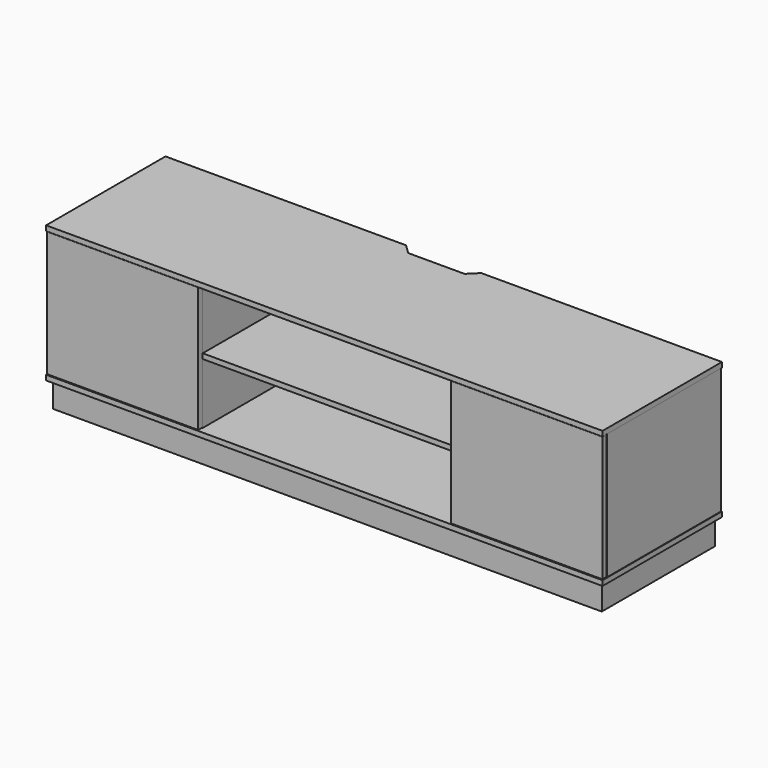
from build123d import *

# Parameters (mm, degrees)
SKETCH_W     = 1085
SKETCH_H     = 280
PAD_DEPTH    = 50
SKETCH001_W  = 1100
SKETCH001_H  = 295
PAD001_DEPTH = 10
SKETCH002_W  = 10
SKETCH002_H  = 282
PAD002_DEPTH = 250
SKETCH003_R  = 2
PAD003_DEPTH = 250
SKETCH004_W  = 299
SKETCH004_H  = 10
PAD004_DEPTH = 248
SKETCH005_W  = 500
SKETCH005_H  = 10
PAD005_DEPTH = 275
SKETCH006_W  = 279
SKETCH006_H  = 10
PAD006_DEPTH = 250
SKETCH007_W  = 1100
SKETCH007_H  = 295
PAD007_DEPTH = 10
POCKET_DEPTH = 320.001


with BuildPart() as body:
    # Sketch → Pad (new body)
    with BuildSketch(Plane.XY):
        Rectangle(SKETCH_W, SKETCH_H)
    extrude(amount=PAD_DEPTH)

    # Sketch001 (on Face6 of Pad) → Pad001 (join)
    with BuildSketch(Plane.XY.offset(50)):
        Rectangle(SKETCH001_W, SKETCH001_H)
    extrude(amount=PAD001_DEPTH)

    # Sketch002 (on Face11 of Pad001) → Pad002 (join)
    with BuildSketch(Plane.XY.offset(60)):
        with Locations((-544, 5.5)):
            Rectangle(SKETCH002_W, SKETCH002_H)
        with Locations((-255, 5.5)):
            Rectangle(SKETCH002_W, SKETCH002_H)
        with Locations((255, 5.5)):
            Rectangle(SKETCH002_W, SKETCH002_H)
        with Locations((544, 5.5)):
            Rectangle(SKETCH002_W, SKETCH002_H)
    extrude(amount=PAD002_DEPTH)

    # Sketch003 (on Face11 of Pad002) → Pad003 (join)
    with BuildSketch(Plane.XY.offset(60)):
        with Locations((544, -141.5)):
            Circle(SKETCH003_R)
        with Locations((-544, -141.5)):
            Circle(SKETCH003_R)
    extrude(amount=PAD003_DEPTH)

    # Sketch004 (on DatumPlane) → Pad004 (join)
    with BuildSketch(Plane.XY.offset(61)):
        with Locations((-399.5, -141.5)):
            Rectangle(SKETCH004_W, SKETCH004_H)
        with Locations((399.5, -141.5)):
            Rectangle(SKETCH004_W, SKETCH004_H)
    extrude(amount=PAD004_DEPTH)

    # Sketch005 (on Face24 of Pad004) → Pad005 (join)
    with BuildSketch(Plane.XZ.offset(135.5)):
        with Locations((0, 185)):
            Rectangle(SKETCH005_W, SKETCH005_H)
    extrude(amount=-PAD005_DEPTH)

    # Sketch006 (on Face11 of Pad005) → Pad006 (join)
    with BuildSketch(Plane.XY.offset(60)):
        with Locations((-399.5, 141.5)):
            Rectangle(SKETCH006_W, SKETCH006_H)
        with Locations((399.5, 141.5)):
            Rectangle(SKETCH006_W, SKETCH006_H)
    extrude(amount=PAD006_DEPTH)

    # Sketch007 (on Face36 of Pad006) → Pad007 (join)
    with BuildSketch(Plane.XY.offset(310)):
        Rectangle(SKETCH007_W, SKETCH007_H)
    extrude(amount=PAD007_DEPTH)

    # Sketch008 (on Face57 of Pad007) → Pocket (cut, through all)
    with BuildSketch(Plane.XY.offset(320)):
        Polygon((-99.982643, 172.691544), (99.982643, 172.691544), (55.785004, 129.302658), (-55.785004, 129.302658), align=None)
    extrude(amount=-POCKET_DEPTH, mode=Mode.SUBTRACT)


with BuildPart() as obj1:
    # Clone base: copy of Body
    add(body.part)


solid = Compound([body.part, obj1.part])
